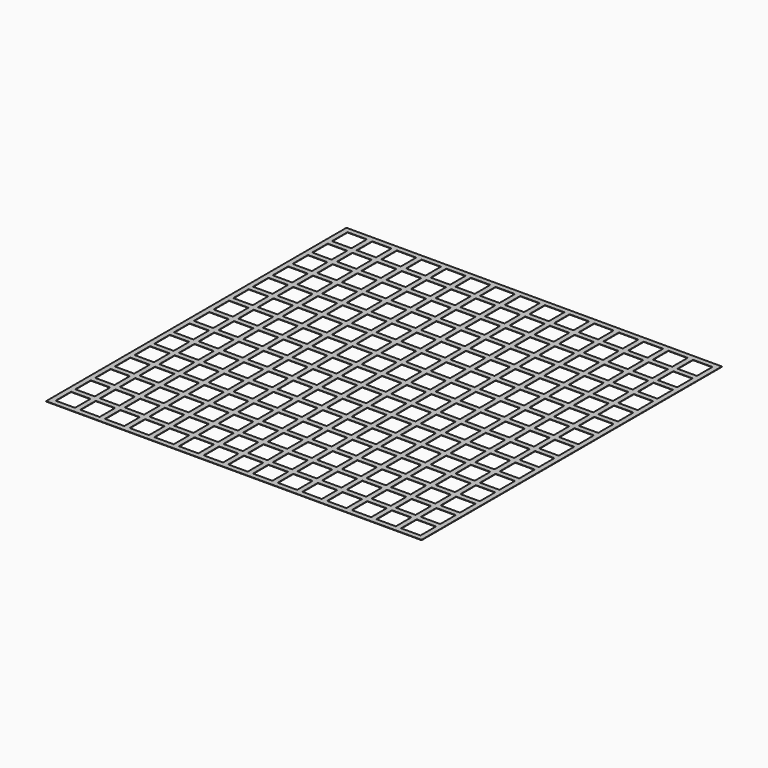
from build123d import *

# Parameters (mm, degrees)
F0_W     = 1065
F0_H     = 1065
F0_W_2   = 55
F0_H_2   = 55
F1_DEPTH = 1


with BuildPart() as f1:
    # F0 (on Top) → F1 (new body)
    with BuildSketch(Plane.XY):
        with Locations((517.5, 517.5)):
            Rectangle(F0_W, F0_H)
        with Locations((27.5, 27.5)):
            Rectangle(F0_W_2, F0_H_2, mode=Mode.SUBTRACT)
        with Locations((97.5, 27.5)):
            Rectangle(F0_W_2, F0_H_2, mode=Mode.SUBTRACT)
        with Locations((27.5, 97.5)):
            Rectangle(F0_W_2, F0_H_2, mode=Mode.SUBTRACT)
        with Locations((97.5, 97.5)):
            Rectangle(F0_W_2, F0_H_2, mode=Mode.SUBTRACT)
        with Locations((167.5, 27.5)):
            Rectangle(F0_W_2, F0_H_2, mode=Mode.SUBTRACT)
        with Locations((237.5, 27.5)):
            Rectangle(F0_W_2, F0_H_2, mode=Mode.SUBTRACT)
        with Locations((167.5, 97.5)):
            Rectangle(F0_W_2, F0_H_2, mode=Mode.SUBTRACT)
        with Locations((237.5, 97.5)):
            Rectangle(F0_W_2, F0_H_2, mode=Mode.SUBTRACT)
        with Locations((27.5, 167.5)):
            Rectangle(F0_W_2, F0_H_2, mode=Mode.SUBTRACT)
        with Locations((97.5, 167.5)):
            Rectangle(F0_W_2, F0_H_2, mode=Mode.SUBTRACT)
        with Locations((27.5, 237.5)):
            Rectangle(F0_W_2, F0_H_2, mode=Mode.SUBTRACT)
        with Locations((97.5, 237.5)):
            Rectangle(F0_W_2, F0_H_2, mode=Mode.SUBTRACT)
        with Locations((167.5, 167.5)):
            Rectangle(F0_W_2, F0_H_2, mode=Mode.SUBTRACT)
        with Locations((237.5, 167.5)):
            Rectangle(F0_W_2, F0_H_2, mode=Mode.SUBTRACT)
        with Locations((167.5, 237.5)):
            Rectangle(F0_W_2, F0_H_2, mode=Mode.SUBTRACT)
        with Locations((237.5, 237.5)):
            Rectangle(F0_W_2, F0_H_2, mode=Mode.SUBTRACT)
        with Locations((307.5, 27.5)):
            Rectangle(F0_W_2, F0_H_2, mode=Mode.SUBTRACT)
        with Locations((377.5, 27.5)):
            Rectangle(F0_W_2, F0_H_2, mode=Mode.SUBTRACT)
        with Locations((307.5, 97.5)):
            Rectangle(F0_W_2, F0_H_2, mode=Mode.SUBTRACT)
        with Locations((377.5, 97.5)):
            Rectangle(F0_W_2, F0_H_2, mode=Mode.SUBTRACT)
        with Locations((447.5, 27.5)):
            Rectangle(F0_W_2, F0_H_2, mode=Mode.SUBTRACT)
        with Locations((447.5, 97.5)):
            Rectangle(F0_W_2, F0_H_2, mode=Mode.SUBTRACT)
        with Locations((307.5, 167.5)):
            Rectangle(F0_W_2, F0_H_2, mode=Mode.SUBTRACT)
        with Locations((377.5, 167.5)):
            Rectangle(F0_W_2, F0_H_2, mode=Mode.SUBTRACT)
        with Locations((307.5, 237.5)):
            Rectangle(F0_W_2, F0_H_2, mode=Mode.SUBTRACT)
        with Locations((377.5, 237.5)):
            Rectangle(F0_W_2, F0_H_2, mode=Mode.SUBTRACT)
        with Locations((447.5, 167.5)):
            Rectangle(F0_W_2, F0_H_2, mode=Mode.SUBTRACT)
        with Locations((447.5, 237.5)):
            Rectangle(F0_W_2, F0_H_2, mode=Mode.SUBTRACT)
        with Locations((27.5, 307.5)):
            Rectangle(F0_W_2, F0_H_2, mode=Mode.SUBTRACT)
        with Locations((97.5, 307.5)):
            Rectangle(F0_W_2, F0_H_2, mode=Mode.SUBTRACT)
        with Locations((27.5, 377.5)):
            Rectangle(F0_W_2, F0_H_2, mode=Mode.SUBTRACT)
        with Locations((97.5, 377.5)):
            Rectangle(F0_W_2, F0_H_2, mode=Mode.SUBTRACT)
        with Locations((167.5, 307.5)):
            Rectangle(F0_W_2, F0_H_2, mode=Mode.SUBTRACT)
        with Locations((237.5, 307.5)):
            Rectangle(F0_W_2, F0_H_2, mode=Mode.SUBTRACT)
        with Locations((167.5, 377.5)):
            Rectangle(F0_W_2, F0_H_2, mode=Mode.SUBTRACT)
        with Locations((237.5, 377.5)):
            Rectangle(F0_W_2, F0_H_2, mode=Mode.SUBTRACT)
        with Locations((27.5, 447.5)):
            Rectangle(F0_W_2, F0_H_2, mode=Mode.SUBTRACT)
        with Locations((97.5, 447.5)):
            Rectangle(F0_W_2, F0_H_2, mode=Mode.SUBTRACT)
        with Locations((167.5, 447.5)):
            Rectangle(F0_W_2, F0_H_2, mode=Mode.SUBTRACT)
        with Locations((237.5, 447.5)):
            Rectangle(F0_W_2, F0_H_2, mode=Mode.SUBTRACT)
        with Locations((307.5, 307.5)):
            Rectangle(F0_W_2, F0_H_2, mode=Mode.SUBTRACT)
        with Locations((377.5, 307.5)):
            Rectangle(F0_W_2, F0_H_2, mode=Mode.SUBTRACT)
        with Locations((307.5, 377.5)):
            Rectangle(F0_W_2, F0_H_2, mode=Mode.SUBTRACT)
        with Locations((377.5, 377.5)):
            Rectangle(F0_W_2, F0_H_2, mode=Mode.SUBTRACT)
        with Locations((447.5, 307.5)):
            Rectangle(F0_W_2, F0_H_2, mode=Mode.SUBTRACT)
        with Locations((447.5, 377.5)):
            Rectangle(F0_W_2, F0_H_2, mode=Mode.SUBTRACT)
        with Locations((307.5, 447.5)):
            Rectangle(F0_W_2, F0_H_2, mode=Mode.SUBTRACT)
        with Locations((377.5, 447.5)):
            Rectangle(F0_W_2, F0_H_2, mode=Mode.SUBTRACT)
        with Locations((447.5, 447.5)):
            Rectangle(F0_W_2, F0_H_2, mode=Mode.SUBTRACT)
        with Locations((517.5, 27.5)):
            Rectangle(F0_W_2, F0_H_2, mode=Mode.SUBTRACT)
        with Locations((587.5, 27.5)):
            Rectangle(F0_W_2, F0_H_2, mode=Mode.SUBTRACT)
        with Locations((517.5, 97.5)):
            Rectangle(F0_W_2, F0_H_2, mode=Mode.SUBTRACT)
        with Locations((587.5, 97.5)):
            Rectangle(F0_W_2, F0_H_2, mode=Mode.SUBTRACT)
        with Locations((657.5, 27.5)):
            Rectangle(F0_W_2, F0_H_2, mode=Mode.SUBTRACT)
        with Locations((727.5, 27.5)):
            Rectangle(F0_W_2, F0_H_2, mode=Mode.SUBTRACT)
        with Locations((657.5, 97.5)):
            Rectangle(F0_W_2, F0_H_2, mode=Mode.SUBTRACT)
        with Locations((727.5, 97.5)):
            Rectangle(F0_W_2, F0_H_2, mode=Mode.SUBTRACT)
        with Locations((517.5, 167.5)):
            Rectangle(F0_W_2, F0_H_2, mode=Mode.SUBTRACT)
        with Locations((587.5, 167.5)):
            Rectangle(F0_W_2, F0_H_2, mode=Mode.SUBTRACT)
        with Locations((517.5, 237.5)):
            Rectangle(F0_W_2, F0_H_2, mode=Mode.SUBTRACT)
        with Locations((587.5, 237.5)):
            Rectangle(F0_W_2, F0_H_2, mode=Mode.SUBTRACT)
        with Locations((657.5, 167.5)):
            Rectangle(F0_W_2, F0_H_2, mode=Mode.SUBTRACT)
        with Locations((727.5, 167.5)):
            Rectangle(F0_W_2, F0_H_2, mode=Mode.SUBTRACT)
        with Locations((657.5, 237.5)):
            Rectangle(F0_W_2, F0_H_2, mode=Mode.SUBTRACT)
        with Locations((727.5, 237.5)):
            Rectangle(F0_W_2, F0_H_2, mode=Mode.SUBTRACT)
        with Locations((797.5, 27.5)):
            Rectangle(F0_W_2, F0_H_2, mode=Mode.SUBTRACT)
        with Locations((867.5, 27.5)):
            Rectangle(F0_W_2, F0_H_2, mode=Mode.SUBTRACT)
        with Locations((797.5, 97.5)):
            Rectangle(F0_W_2, F0_H_2, mode=Mode.SUBTRACT)
        with Locations((867.5, 97.5)):
            Rectangle(F0_W_2, F0_H_2, mode=Mode.SUBTRACT)
        with Locations((937.5, 27.5)):
            Rectangle(F0_W_2, F0_H_2, mode=Mode.SUBTRACT)
        with Locations((1007.5, 27.5)):
            Rectangle(F0_W_2, F0_H_2, mode=Mode.SUBTRACT)
        with Locations((937.5, 97.5)):
            Rectangle(F0_W_2, F0_H_2, mode=Mode.SUBTRACT)
        with Locations((1007.5, 97.5)):
            Rectangle(F0_W_2, F0_H_2, mode=Mode.SUBTRACT)
        with Locations((797.5, 167.5)):
            Rectangle(F0_W_2, F0_H_2, mode=Mode.SUBTRACT)
        with Locations((867.5, 167.5)):
            Rectangle(F0_W_2, F0_H_2, mode=Mode.SUBTRACT)
        with Locations((797.5, 237.5)):
            Rectangle(F0_W_2, F0_H_2, mode=Mode.SUBTRACT)
        with Locations((867.5, 237.5)):
            Rectangle(F0_W_2, F0_H_2, mode=Mode.SUBTRACT)
        with Locations((937.5, 167.5)):
            Rectangle(F0_W_2, F0_H_2, mode=Mode.SUBTRACT)
        with Locations((1007.5, 167.5)):
            Rectangle(F0_W_2, F0_H_2, mode=Mode.SUBTRACT)
        with Locations((937.5, 237.5)):
            Rectangle(F0_W_2, F0_H_2, mode=Mode.SUBTRACT)
        with Locations((1007.5, 237.5)):
            Rectangle(F0_W_2, F0_H_2, mode=Mode.SUBTRACT)
        with Locations((517.5, 307.5)):
            Rectangle(F0_W_2, F0_H_2, mode=Mode.SUBTRACT)
        with Locations((587.5, 307.5)):
            Rectangle(F0_W_2, F0_H_2, mode=Mode.SUBTRACT)
        with Locations((517.5, 377.5)):
            Rectangle(F0_W_2, F0_H_2, mode=Mode.SUBTRACT)
        with Locations((587.5, 377.5)):
            Rectangle(F0_W_2, F0_H_2, mode=Mode.SUBTRACT)
        with Locations((657.5, 307.5)):
            Rectangle(F0_W_2, F0_H_2, mode=Mode.SUBTRACT)
        with Locations((727.5, 307.5)):
            Rectangle(F0_W_2, F0_H_2, mode=Mode.SUBTRACT)
        with Locations((657.5, 377.5)):
            Rectangle(F0_W_2, F0_H_2, mode=Mode.SUBTRACT)
        with Locations((727.5, 377.5)):
            Rectangle(F0_W_2, F0_H_2, mode=Mode.SUBTRACT)
        with Locations((517.5, 447.5)):
            Rectangle(F0_W_2, F0_H_2, mode=Mode.SUBTRACT)
        with Locations((587.5, 447.5)):
            Rectangle(F0_W_2, F0_H_2, mode=Mode.SUBTRACT)
        with Locations((657.5, 447.5)):
            Rectangle(F0_W_2, F0_H_2, mode=Mode.SUBTRACT)
        with Locations((727.5, 447.5)):
            Rectangle(F0_W_2, F0_H_2, mode=Mode.SUBTRACT)
        with Locations((797.5, 307.5)):
            Rectangle(F0_W_2, F0_H_2, mode=Mode.SUBTRACT)
        with Locations((867.5, 307.5)):
            Rectangle(F0_W_2, F0_H_2, mode=Mode.SUBTRACT)
        with Locations((797.5, 377.5)):
            Rectangle(F0_W_2, F0_H_2, mode=Mode.SUBTRACT)
        with Locations((867.5, 377.5)):
            Rectangle(F0_W_2, F0_H_2, mode=Mode.SUBTRACT)
        with Locations((937.5, 307.5)):
            Rectangle(F0_W_2, F0_H_2, mode=Mode.SUBTRACT)
        with Locations((1007.5, 307.5)):
            Rectangle(F0_W_2, F0_H_2, mode=Mode.SUBTRACT)
        with Locations((937.5, 377.5)):
            Rectangle(F0_W_2, F0_H_2, mode=Mode.SUBTRACT)
        with Locations((1007.5, 377.5)):
            Rectangle(F0_W_2, F0_H_2, mode=Mode.SUBTRACT)
        with Locations((797.5, 447.5)):
            Rectangle(F0_W_2, F0_H_2, mode=Mode.SUBTRACT)
        with Locations((867.5, 447.5)):
            Rectangle(F0_W_2, F0_H_2, mode=Mode.SUBTRACT)
        with Locations((937.5, 447.5)):
            Rectangle(F0_W_2, F0_H_2, mode=Mode.SUBTRACT)
        with Locations((1007.5, 447.5)):
            Rectangle(F0_W_2, F0_H_2, mode=Mode.SUBTRACT)
        with Locations((27.5, 517.5)):
            Rectangle(F0_W_2, F0_H_2, mode=Mode.SUBTRACT)
        with Locations((97.5, 517.5)):
            Rectangle(F0_W_2, F0_H_2, mode=Mode.SUBTRACT)
        with Locations((27.5, 587.5)):
            Rectangle(F0_W_2, F0_H_2, mode=Mode.SUBTRACT)
        with Locations((97.5, 587.5)):
            Rectangle(F0_W_2, F0_H_2, mode=Mode.SUBTRACT)
        with Locations((167.5, 517.5)):
            Rectangle(F0_W_2, F0_H_2, mode=Mode.SUBTRACT)
        with Locations((237.5, 517.5)):
            Rectangle(F0_W_2, F0_H_2, mode=Mode.SUBTRACT)
        with Locations((167.5, 587.5)):
            Rectangle(F0_W_2, F0_H_2, mode=Mode.SUBTRACT)
        with Locations((237.5, 587.5)):
            Rectangle(F0_W_2, F0_H_2, mode=Mode.SUBTRACT)
        with Locations((27.5, 657.5)):
            Rectangle(F0_W_2, F0_H_2, mode=Mode.SUBTRACT)
        with Locations((97.5, 657.5)):
            Rectangle(F0_W_2, F0_H_2, mode=Mode.SUBTRACT)
        with Locations((27.5, 727.5)):
            Rectangle(F0_W_2, F0_H_2, mode=Mode.SUBTRACT)
        with Locations((97.5, 727.5)):
            Rectangle(F0_W_2, F0_H_2, mode=Mode.SUBTRACT)
        with Locations((167.5, 657.5)):
            Rectangle(F0_W_2, F0_H_2, mode=Mode.SUBTRACT)
        with Locations((237.5, 657.5)):
            Rectangle(F0_W_2, F0_H_2, mode=Mode.SUBTRACT)
        with Locations((167.5, 727.5)):
            Rectangle(F0_W_2, F0_H_2, mode=Mode.SUBTRACT)
        with Locations((237.5, 727.5)):
            Rectangle(F0_W_2, F0_H_2, mode=Mode.SUBTRACT)
        with Locations((307.5, 517.5)):
            Rectangle(F0_W_2, F0_H_2, mode=Mode.SUBTRACT)
        with Locations((377.5, 517.5)):
            Rectangle(F0_W_2, F0_H_2, mode=Mode.SUBTRACT)
        with Locations((307.5, 587.5)):
            Rectangle(F0_W_2, F0_H_2, mode=Mode.SUBTRACT)
        with Locations((377.5, 587.5)):
            Rectangle(F0_W_2, F0_H_2, mode=Mode.SUBTRACT)
        with Locations((447.5, 517.5)):
            Rectangle(F0_W_2, F0_H_2, mode=Mode.SUBTRACT)
        with Locations((447.5, 587.5)):
            Rectangle(F0_W_2, F0_H_2, mode=Mode.SUBTRACT)
        with Locations((307.5, 657.5)):
            Rectangle(F0_W_2, F0_H_2, mode=Mode.SUBTRACT)
        with Locations((377.5, 657.5)):
            Rectangle(F0_W_2, F0_H_2, mode=Mode.SUBTRACT)
        with Locations((307.5, 727.5)):
            Rectangle(F0_W_2, F0_H_2, mode=Mode.SUBTRACT)
        with Locations((377.5, 727.5)):
            Rectangle(F0_W_2, F0_H_2, mode=Mode.SUBTRACT)
        with Locations((447.5, 657.5)):
            Rectangle(F0_W_2, F0_H_2, mode=Mode.SUBTRACT)
        with Locations((447.5, 727.5)):
            Rectangle(F0_W_2, F0_H_2, mode=Mode.SUBTRACT)
        with Locations((27.5, 797.5)):
            Rectangle(F0_W_2, F0_H_2, mode=Mode.SUBTRACT)
        with Locations((97.5, 797.5)):
            Rectangle(F0_W_2, F0_H_2, mode=Mode.SUBTRACT)
        with Locations((27.5, 867.5)):
            Rectangle(F0_W_2, F0_H_2, mode=Mode.SUBTRACT)
        with Locations((97.5, 867.5)):
            Rectangle(F0_W_2, F0_H_2, mode=Mode.SUBTRACT)
        with Locations((167.5, 797.5)):
            Rectangle(F0_W_2, F0_H_2, mode=Mode.SUBTRACT)
        with Locations((237.5, 797.5)):
            Rectangle(F0_W_2, F0_H_2, mode=Mode.SUBTRACT)
        with Locations((167.5, 867.5)):
            Rectangle(F0_W_2, F0_H_2, mode=Mode.SUBTRACT)
        with Locations((237.5, 867.5)):
            Rectangle(F0_W_2, F0_H_2, mode=Mode.SUBTRACT)
        with Locations((27.5, 937.5)):
            Rectangle(F0_W_2, F0_H_2, mode=Mode.SUBTRACT)
        with Locations((97.5, 937.5)):
            Rectangle(F0_W_2, F0_H_2, mode=Mode.SUBTRACT)
        with Locations((27.5, 1007.5)):
            Rectangle(F0_W_2, F0_H_2, mode=Mode.SUBTRACT)
        with Locations((97.5, 1007.5)):
            Rectangle(F0_W_2, F0_H_2, mode=Mode.SUBTRACT)
        with Locations((167.5, 937.5)):
            Rectangle(F0_W_2, F0_H_2, mode=Mode.SUBTRACT)
        with Locations((237.5, 937.5)):
            Rectangle(F0_W_2, F0_H_2, mode=Mode.SUBTRACT)
        with Locations((167.5, 1007.5)):
            Rectangle(F0_W_2, F0_H_2, mode=Mode.SUBTRACT)
        with Locations((237.5, 1007.5)):
            Rectangle(F0_W_2, F0_H_2, mode=Mode.SUBTRACT)
        with Locations((307.5, 797.5)):
            Rectangle(F0_W_2, F0_H_2, mode=Mode.SUBTRACT)
        with Locations((377.5, 797.5)):
            Rectangle(F0_W_2, F0_H_2, mode=Mode.SUBTRACT)
        with Locations((307.5, 867.5)):
            Rectangle(F0_W_2, F0_H_2, mode=Mode.SUBTRACT)
        with Locations((377.5, 867.5)):
            Rectangle(F0_W_2, F0_H_2, mode=Mode.SUBTRACT)
        with Locations((447.5, 797.5)):
            Rectangle(F0_W_2, F0_H_2, mode=Mode.SUBTRACT)
        with Locations((447.5, 867.5)):
            Rectangle(F0_W_2, F0_H_2, mode=Mode.SUBTRACT)
        with Locations((307.5, 937.5)):
            Rectangle(F0_W_2, F0_H_2, mode=Mode.SUBTRACT)
        with Locations((377.5, 937.5)):
            Rectangle(F0_W_2, F0_H_2, mode=Mode.SUBTRACT)
        with Locations((307.5, 1007.5)):
            Rectangle(F0_W_2, F0_H_2, mode=Mode.SUBTRACT)
        with Locations((377.5, 1007.5)):
            Rectangle(F0_W_2, F0_H_2, mode=Mode.SUBTRACT)
        with Locations((447.5, 937.5)):
            Rectangle(F0_W_2, F0_H_2, mode=Mode.SUBTRACT)
        with Locations((447.5, 1007.5)):
            Rectangle(F0_W_2, F0_H_2, mode=Mode.SUBTRACT)
        with Locations((517.5, 517.5)):
            Rectangle(F0_W_2, F0_H_2, mode=Mode.SUBTRACT)
        with Locations((587.5, 517.5)):
            Rectangle(F0_W_2, F0_H_2, mode=Mode.SUBTRACT)
        with Locations((517.5, 587.5)):
            Rectangle(F0_W_2, F0_H_2, mode=Mode.SUBTRACT)
        with Locations((587.5, 587.5)):
            Rectangle(F0_W_2, F0_H_2, mode=Mode.SUBTRACT)
        with Locations((657.5, 517.5)):
            Rectangle(F0_W_2, F0_H_2, mode=Mode.SUBTRACT)
        with Locations((727.5, 517.5)):
            Rectangle(F0_W_2, F0_H_2, mode=Mode.SUBTRACT)
        with Locations((657.5, 587.5)):
            Rectangle(F0_W_2, F0_H_2, mode=Mode.SUBTRACT)
        with Locations((727.5, 587.5)):
            Rectangle(F0_W_2, F0_H_2, mode=Mode.SUBTRACT)
        with Locations((517.5, 657.5)):
            Rectangle(F0_W_2, F0_H_2, mode=Mode.SUBTRACT)
        with Locations((587.5, 657.5)):
            Rectangle(F0_W_2, F0_H_2, mode=Mode.SUBTRACT)
        with Locations((517.5, 727.5)):
            Rectangle(F0_W_2, F0_H_2, mode=Mode.SUBTRACT)
        with Locations((587.5, 727.5)):
            Rectangle(F0_W_2, F0_H_2, mode=Mode.SUBTRACT)
        with Locations((657.5, 657.5)):
            Rectangle(F0_W_2, F0_H_2, mode=Mode.SUBTRACT)
        with Locations((727.5, 657.5)):
            Rectangle(F0_W_2, F0_H_2, mode=Mode.SUBTRACT)
        with Locations((657.5, 727.5)):
            Rectangle(F0_W_2, F0_H_2, mode=Mode.SUBTRACT)
        with Locations((727.5, 727.5)):
            Rectangle(F0_W_2, F0_H_2, mode=Mode.SUBTRACT)
        with Locations((797.5, 517.5)):
            Rectangle(F0_W_2, F0_H_2, mode=Mode.SUBTRACT)
        with Locations((867.5, 517.5)):
            Rectangle(F0_W_2, F0_H_2, mode=Mode.SUBTRACT)
        with Locations((797.5, 587.5)):
            Rectangle(F0_W_2, F0_H_2, mode=Mode.SUBTRACT)
        with Locations((867.5, 587.5)):
            Rectangle(F0_W_2, F0_H_2, mode=Mode.SUBTRACT)
        with Locations((937.5, 517.5)):
            Rectangle(F0_W_2, F0_H_2, mode=Mode.SUBTRACT)
        with Locations((1007.5, 517.5)):
            Rectangle(F0_W_2, F0_H_2, mode=Mode.SUBTRACT)
        with Locations((937.5, 587.5)):
            Rectangle(F0_W_2, F0_H_2, mode=Mode.SUBTRACT)
        with Locations((1007.5, 587.5)):
            Rectangle(F0_W_2, F0_H_2, mode=Mode.SUBTRACT)
        with Locations((797.5, 657.5)):
            Rectangle(F0_W_2, F0_H_2, mode=Mode.SUBTRACT)
        with Locations((867.5, 657.5)):
            Rectangle(F0_W_2, F0_H_2, mode=Mode.SUBTRACT)
        with Locations((797.5, 727.5)):
            Rectangle(F0_W_2, F0_H_2, mode=Mode.SUBTRACT)
        with Locations((867.5, 727.5)):
            Rectangle(F0_W_2, F0_H_2, mode=Mode.SUBTRACT)
        with Locations((937.5, 657.5)):
            Rectangle(F0_W_2, F0_H_2, mode=Mode.SUBTRACT)
        with Locations((1007.5, 657.5)):
            Rectangle(F0_W_2, F0_H_2, mode=Mode.SUBTRACT)
        with Locations((937.5, 727.5)):
            Rectangle(F0_W_2, F0_H_2, mode=Mode.SUBTRACT)
        with Locations((1007.5, 727.5)):
            Rectangle(F0_W_2, F0_H_2, mode=Mode.SUBTRACT)
        with Locations((517.5, 797.5)):
            Rectangle(F0_W_2, F0_H_2, mode=Mode.SUBTRACT)
        with Locations((587.5, 797.5)):
            Rectangle(F0_W_2, F0_H_2, mode=Mode.SUBTRACT)
        with Locations((517.5, 867.5)):
            Rectangle(F0_W_2, F0_H_2, mode=Mode.SUBTRACT)
        with Locations((587.5, 867.5)):
            Rectangle(F0_W_2, F0_H_2, mode=Mode.SUBTRACT)
        with Locations((657.5, 797.5)):
            Rectangle(F0_W_2, F0_H_2, mode=Mode.SUBTRACT)
        with Locations((727.5, 797.5)):
            Rectangle(F0_W_2, F0_H_2, mode=Mode.SUBTRACT)
        with Locations((657.5, 867.5)):
            Rectangle(F0_W_2, F0_H_2, mode=Mode.SUBTRACT)
        with Locations((727.5, 867.5)):
            Rectangle(F0_W_2, F0_H_2, mode=Mode.SUBTRACT)
        with Locations((517.5, 937.5)):
            Rectangle(F0_W_2, F0_H_2, mode=Mode.SUBTRACT)
        with Locations((587.5, 937.5)):
            Rectangle(F0_W_2, F0_H_2, mode=Mode.SUBTRACT)
        with Locations((517.5, 1007.5)):
            Rectangle(F0_W_2, F0_H_2, mode=Mode.SUBTRACT)
        with Locations((587.5, 1007.5)):
            Rectangle(F0_W_2, F0_H_2, mode=Mode.SUBTRACT)
        with Locations((657.5, 937.5)):
            Rectangle(F0_W_2, F0_H_2, mode=Mode.SUBTRACT)
        with Locations((727.5, 937.5)):
            Rectangle(F0_W_2, F0_H_2, mode=Mode.SUBTRACT)
        with Locations((657.5, 1007.5)):
            Rectangle(F0_W_2, F0_H_2, mode=Mode.SUBTRACT)
        with Locations((727.5, 1007.5)):
            Rectangle(F0_W_2, F0_H_2, mode=Mode.SUBTRACT)
        with Locations((797.5, 797.5)):
            Rectangle(F0_W_2, F0_H_2, mode=Mode.SUBTRACT)
        with Locations((867.5, 797.5)):
            Rectangle(F0_W_2, F0_H_2, mode=Mode.SUBTRACT)
        with Locations((797.5, 867.5)):
            Rectangle(F0_W_2, F0_H_2, mode=Mode.SUBTRACT)
        with Locations((867.5, 867.5)):
            Rectangle(F0_W_2, F0_H_2, mode=Mode.SUBTRACT)
        with Locations((937.5, 797.5)):
            Rectangle(F0_W_2, F0_H_2, mode=Mode.SUBTRACT)
        with Locations((1007.5, 797.5)):
            Rectangle(F0_W_2, F0_H_2, mode=Mode.SUBTRACT)
        with Locations((937.5, 867.5)):
            Rectangle(F0_W_2, F0_H_2, mode=Mode.SUBTRACT)
        with Locations((1007.5, 867.5)):
            Rectangle(F0_W_2, F0_H_2, mode=Mode.SUBTRACT)
        with Locations((797.5, 937.5)):
            Rectangle(F0_W_2, F0_H_2, mode=Mode.SUBTRACT)
        with Locations((867.5, 937.5)):
            Rectangle(F0_W_2, F0_H_2, mode=Mode.SUBTRACT)
        with Locations((797.5, 1007.5)):
            Rectangle(F0_W_2, F0_H_2, mode=Mode.SUBTRACT)
        with Locations((867.5, 1007.5)):
            Rectangle(F0_W_2, F0_H_2, mode=Mode.SUBTRACT)
        with Locations((937.5, 937.5)):
            Rectangle(F0_W_2, F0_H_2, mode=Mode.SUBTRACT)
        with Locations((1007.5, 937.5)):
            Rectangle(F0_W_2, F0_H_2, mode=Mode.SUBTRACT)
        with Locations((937.5, 1007.5)):
            Rectangle(F0_W_2, F0_H_2, mode=Mode.SUBTRACT)
        with Locations((1007.5, 1007.5)):
            Rectangle(F0_W_2, F0_H_2, mode=Mode.SUBTRACT)
    extrude(amount=F1_DEPTH)


solid = f1.part
